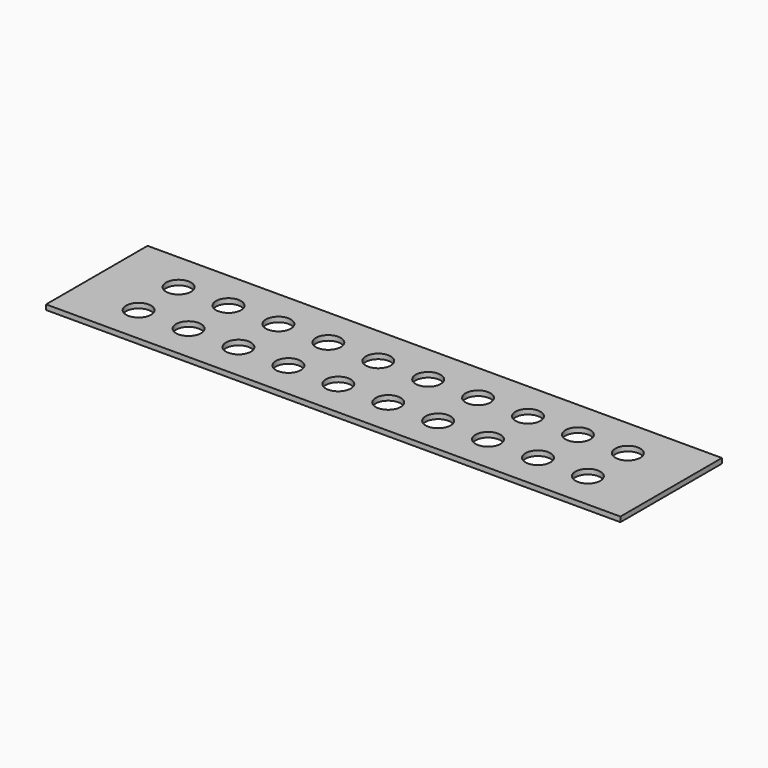
from build123d import *

# Parameters (mm, degrees)
BOX_W        = 115
BOX_H        = 25.4
BOX_DEPTH    = 1
SKETCH_R     = 2.5
POCKET_DEPTH = 5


with BuildPart() as part:
    # Box → Box (new body)
    with BuildSketch(Plane.XY):
        with Locations((57.5, 12.7)):
            Rectangle(BOX_W, BOX_H)
    extrude(amount=BOX_DEPTH)

    # Sketch (on Face6 of BaseFeature) → Pocket (cut)
    with BuildSketch(Plane.XY.offset(1)):
        with Locations((12.527164, 17.504574)):
            Circle(SKETCH_R)
        with Locations((22.523344, 17.5024)):
            Circle(SKETCH_R)
        with Locations((32.519524, 17.500226)):
            Circle(SKETCH_R)
        with Locations((42.515704, 17.498052)):
            Circle(SKETCH_R)
        with Locations((52.511884, 17.495878)):
            Circle(SKETCH_R)
        with Locations((62.508064, 17.493704)):
            Circle(SKETCH_R)
        with Locations((72.504244, 17.49153)):
            Circle(SKETCH_R)
        with Locations((82.500424, 17.489356)):
            Circle(SKETCH_R)
        with Locations((92.496604, 17.487182)):
            Circle(SKETCH_R)
        with Locations((102.492784, 17.485008)):
            Circle(SKETCH_R)
        with Locations((12.52499, 7.508394)):
            Circle(SKETCH_R)
        with Locations((22.52117, 7.50622)):
            Circle(SKETCH_R)
        with Locations((32.51735, 7.504046)):
            Circle(SKETCH_R)
        with Locations((42.51353, 7.501872)):
            Circle(SKETCH_R)
        with Locations((52.50971, 7.499698)):
            Circle(SKETCH_R)
        with Locations((62.50589, 7.497524)):
            Circle(SKETCH_R)
        with Locations((72.50207, 7.49535)):
            Circle(SKETCH_R)
        with Locations((82.49825, 7.493176)):
            Circle(SKETCH_R)
        with Locations((92.49443, 7.491002)):
            Circle(SKETCH_R)
        with Locations((102.49061, 7.488828)):
            Circle(SKETCH_R)
    extrude(amount=-POCKET_DEPTH, mode=Mode.SUBTRACT)


solid = part.part
